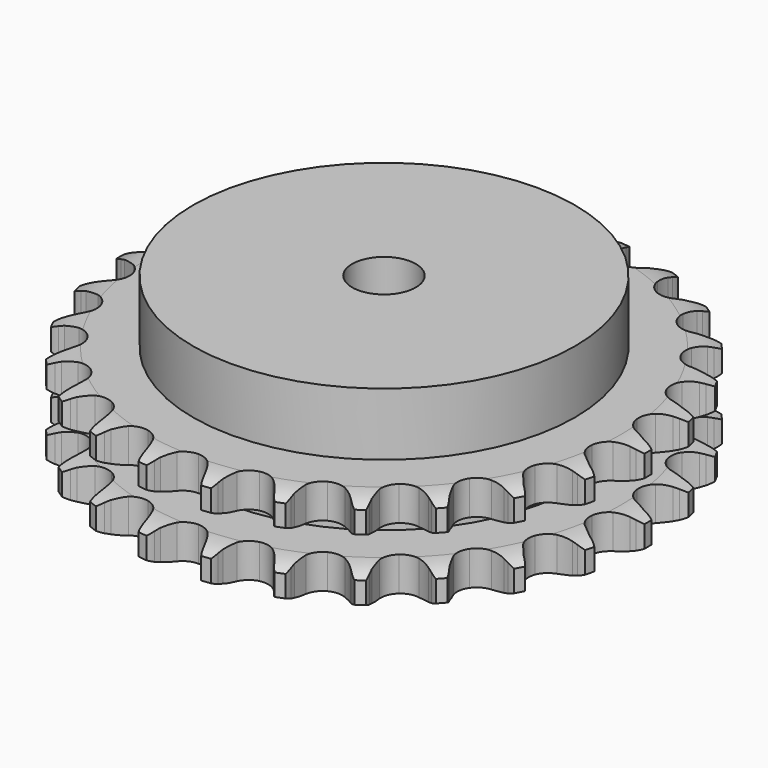
from build123d import *

# Parameters (mm, degrees)
PAD_DEPTH         = 30.3
SKETCH001_R       = 60
PAD001_DEPTH      = 50
SKETCH002_R       = 10
POCKET_DEPTH      = 0.001
POCKET_DEPTH_BACK = 50.001


with BuildPart() as part:
    # Sprocket → Pad (new body)
    with BuildSketch(Plane.XY):
        with BuildLine():
            ThreePointArc((-10.2495, 84.412229), (-8.684067, 82.666915), (-7.573609, 80.602071))
            Line((-7.573609, 80.602071), (-6.986274, 79.108095))
            ThreePointArc((-6.986274, 79.108095), (-6.051469, 77.141444), (-4.854497, 75.322423))
            ThreePointArc((-4.854497, 75.322423), (-2.708592, 73.552266), (0, 72.918314))
            ThreePointArc((0, 72.918314), (2.708592, 73.552266), (4.854497, 75.322423))
            ThreePointArc((4.854497, 75.322423), (6.051469, 77.141444), (6.986274, 79.108095))
            Line((6.986274, 79.108095), (7.573609, 80.602071))
            ThreePointArc((7.573609, 80.602071), (8.684067, 82.666915), (10.2495, 84.412229))
            ThreePointArc((10.2495, 84.412229), (11.351764, 82.342998), (11.935805, 80.072404))
            Line((11.935805, 80.072404), (12.148541, 78.481282))
            ThreePointArc((12.148541, 78.481282), (12.585532, 76.348065), (13.312402, 74.295448))
            ThreePointArc((13.312402, 74.295448), (14.972324, 72.063179), (17.450495, 70.79944))
            ThreePointArc((17.450495, 70.79944), (20.232095, 70.766762), (22.73927, 71.971933))
            Line((22.73927, 71.971933), (25.715072, 75.137432))
            ThreePointArc((25.715072, 75.137432), (26.162281, 75.804256), (26.642871, 76.447438))
            ThreePointArc((26.642871, 76.447438), (28.215212, 78.186532), (30.152837, 79.506497))
            ThreePointArc((30.152837, 79.506497), (30.727872, 77.233605), (30.751553, 74.88922))
            Line((30.751553, 74.88922), (30.577326, 73.293422))
            ThreePointArc((30.577326, 73.293422), (30.491107, 71.117614), (30.705632, 68.950691))
            ThreePointArc((30.705632, 68.950691), (31.783103, 66.386042), (33.88683, 64.56596))
            ThreePointArc((33.88683, 64.56596), (36.579781, 63.868552), (39.302519, 64.438696))
            Line((39.302519, 64.438696), (42.949403, 66.800056))
            ThreePointArc((42.949403, 66.800056), (43.543198, 67.340479), (44.163747, 67.849958))
            ThreePointArc((44.163747, 67.849958), (46.106591, 69.162231), (48.303801, 69.980137))
            ThreePointArc((48.303801, 69.980137), (48.318187, 67.635676), (47.780132, 65.353748))
            Line((47.780132, 65.353748), (47.229069, 63.846016))
            ThreePointArc((47.229069, 63.846016), (46.62465, 61.754066), (46.314363, 59.59877))
            ThreePointArc((46.314363, 59.59877), (46.746764, 56.85079), (48.353786, 54.580142))
            ThreePointArc((48.353786, 54.580142), (50.801584, 53.258533), (53.581649, 53.160517))
            Line((53.581649, 53.160517), (57.687671, 54.580503))
            ThreePointArc((57.687671, 54.580503), (58.393543, 54.963117), (59.117987, 55.309285))
            ThreePointArc((59.117987, 55.309285), (61.318422, 56.118473), (63.647523, 56.386785))
            ThreePointArc((63.647523, 56.386785), (63.100425, 54.107007), (62.031904, 52.020152))
            Line((62.031904, 52.020152), (61.13603, 50.68811))
            ThreePointArc((61.13603, 50.68811), (60.048538, 48.801596), (59.231471, 46.783186))
            ThreePointArc((59.231471, 46.783186), (58.993672, 44.011577), (60.010596, 41.422324))
            ThreePointArc((60.010596, 41.422324), (62.070984, 39.553322), (64.746808, 38.792841))
            Line((64.746808, 38.792841), (69.073341, 39.188929))
            ThreePointArc((69.073341, 39.188929), (69.850268, 39.391499), (70.636504, 39.554237))
            ThreePointArc((70.636504, 39.554237), (72.96665, 39.813313), (75.292282, 39.516438))
            ThreePointArc((75.292282, 39.516438), (74.215496, 37.433836), (72.678607, 35.663335))
            Line((72.678607, 35.663335), (71.489986, 34.584397))
            ThreePointArc((71.489986, 34.584397), (69.982623, 33.012954), (68.706261, 31.248733))
            ThreePointArc((68.706261, 31.248733), (67.812083, 28.61457), (68.179808, 25.85719))
            ThreePointArc((68.179808, 25.85719), (69.733043, 23.549415), (72.149118, 22.170666))
            Line((72.149118, 22.170666), (76.44472, 21.519837))
            ThreePointArc((76.44472, 21.519837), (77.247549, 21.530591), (78.049884, 21.500441))
            ThreePointArc((78.049884, 21.500441), (80.374321, 21.194348), (82.561328, 20.34954))
            ThreePointArc((82.561328, 20.34954), (81.017432, 18.585146), (79.101493, 17.233894))
            Line((79.101493, 17.233894), (77.689205, 16.470763))
            ThreePointArc((77.689205, 16.470763), (75.849572, 15.30572), (74.188093, 13.898217))
            ThreePointArc((74.188093, 13.898217), (72.689502, 11.554589), (72.386657, 8.789331))
            ThreePointArc((72.386657, 8.789331), (73.342472, 6.176903), (75.358383, 4.260013))
            Line((75.358383, 4.260013), (79.37341, 2.600091))
            ThreePointArc((79.37341, 2.600091), (80.155483, 2.418402), (80.927288, 2.197118))
            ThreePointArc((80.927288, 2.197118), (83.110929, 1.343645), (85.03221, 0))
            ThreePointArc((85.03221, 0), (83.110929, -1.343645), (80.927288, -2.197118))
            Line((80.927288, -2.197118), (79.37341, -2.600091))
            ThreePointArc((79.37341, -2.600091), (77.30842, -3.291027), (75.358383, -4.260013))
            ThreePointArc((75.358383, -4.260013), (73.342472, -6.176903), (72.386657, -8.789331))
            ThreePointArc((72.386657, -8.789331), (72.689502, -11.554589), (74.188093, -13.898217))
            Line((74.188093, -13.898217), (77.689205, -16.470763))
            ThreePointArc((77.689205, -16.470763), (78.405072, -16.834335), (79.101493, -17.233894))
            ThreePointArc((79.101493, -17.233894), (81.017432, -18.585146), (82.561328, -20.34954))
            ThreePointArc((82.561328, -20.34954), (80.374321, -21.194348), (78.049884, -21.500441))
            Line((78.049884, -21.500441), (76.44472, -21.519837))
            ThreePointArc((76.44472, -21.519837), (74.274383, -21.696512), (72.149118, -22.170666))
            ThreePointArc((72.149118, -22.170666), (69.733043, -23.549415), (68.179808, -25.85719))
            ThreePointArc((68.179808, -25.85719), (67.812083, -28.61457), (68.706261, -31.248733))
            Line((68.706261, -31.248733), (71.489986, -34.584397))
            ThreePointArc((71.489986, -34.584397), (72.098043, -35.108722), (72.678607, -35.663335))
            ThreePointArc((72.678607, -35.663335), (74.215496, -37.433836), (75.292282, -39.516438))
            ThreePointArc((75.292282, -39.516438), (72.96665, -39.813313), (70.636504, -39.554237))
            Line((70.636504, -39.554237), (69.073341, -39.188929))
            ThreePointArc((69.073341, -39.188929), (66.92379, -38.841074), (64.746808, -38.792841))
            ThreePointArc((64.746808, -38.792841), (62.070984, -39.553322), (60.010596, -41.422324))
            ThreePointArc((60.010596, -41.422324), (58.993672, -44.011577), (59.231471, -46.783186))
            Line((59.231471, -46.783186), (61.13603, -50.68811))
            ThreePointArc((61.13603, -50.68811), (61.600938, -51.342717), (62.031904, -52.020152))
            ThreePointArc((62.031904, -52.020152), (63.100425, -54.107007), (63.647523, -56.386785))
            ThreePointArc((63.647523, -56.386785), (61.318422, -56.118473), (59.117987, -55.309285))
            Line((59.117987, -55.309285), (57.687671, -54.580503))
            ThreePointArc((57.687671, -54.580503), (55.683828, -53.728334), (53.581649, -53.160517))
            ThreePointArc((53.581649, -53.160517), (50.801584, -53.258533), (48.353786, -54.580142))
            ThreePointArc((48.353786, -54.580142), (46.746764, -56.85079), (46.314363, -59.59877))
            Line((46.314363, -59.59877), (47.229069, -63.846016))
            ThreePointArc((47.229069, -63.846016), (47.523811, -64.59286), (47.780132, -65.353748))
            ThreePointArc((47.780132, -65.353748), (48.318187, -67.635676), (48.303801, -69.980137))
            ThreePointArc((48.303801, -69.980137), (46.106591, -69.162231), (44.163747, -67.849958))
            Line((44.163747, -67.849958), (42.949403, -66.800056))
            ThreePointArc((42.949403, -66.800056), (41.207726, -65.493099), (39.302519, -64.438696))
            ThreePointArc((39.302519, -64.438696), (36.579781, -63.868552), (33.88683, -64.56596))
            ThreePointArc((33.88683, -64.56596), (31.783103, -66.386042), (30.705632, -68.950691))
            Line((30.705632, -68.950691), (30.577326, -73.293422))
            ThreePointArc((30.577326, -73.293422), (30.684772, -74.089102), (30.751553, -74.88922))
            ThreePointArc((30.751553, -74.88922), (30.727872, -77.233605), (30.152837, -79.506497))
            ThreePointArc((30.152837, -79.506497), (28.215212, -78.186532), (26.642871, -76.447438))
            Line((26.642871, -76.447438), (25.715072, -75.137432))
            ThreePointArc((25.715072, -75.137432), (24.33678, -73.451642), (22.73927, -71.971933))
            ThreePointArc((22.73927, -71.971933), (20.232095, -70.766762), (17.450495, -70.79944))
            ThreePointArc((17.450495, -70.79944), (14.972324, -72.063179), (13.312402, -74.295448))
            Line((13.312402, -74.295448), (12.148541, -78.481282))
            ThreePointArc((12.148541, -78.481282), (12.062445, -79.279553), (11.935805, -80.072404))
            ThreePointArc((11.935805, -80.072404), (11.351764, -82.342998), (10.2495, -84.412229))
            ThreePointArc((10.2495, -84.412229), (8.684067, -82.666915), (7.573609, -80.602071))
            Line((7.573609, -80.602071), (6.986274, -79.108095))
            ThreePointArc((6.986274, -79.108095), (6.051469, -77.141444), (4.854497, -75.322423))
            ThreePointArc((4.854497, -75.322423), (2.708592, -73.552266), (0, -72.918314))
            ThreePointArc((0, -72.918314), (-2.708592, -73.552266), (-4.854497, -75.322423))
            Line((-4.854497, -75.322423), (-6.986274, -79.108095))
            ThreePointArc((-6.986274, -79.108095), (-7.260906, -79.862566), (-7.573609, -80.602071))
            ThreePointArc((-7.573609, -80.602071), (-8.684067, -82.666915), (-10.2495, -84.412229))
            ThreePointArc((-10.2495, -84.412229), (-11.351764, -82.342998), (-11.935805, -80.072404))
            Line((-11.935805, -80.072404), (-12.148541, -78.481282))
            ThreePointArc((-12.148541, -78.481282), (-12.585532, -76.348065), (-13.312402, -74.295448))
            ThreePointArc((-13.312402, -74.295448), (-14.972324, -72.063179), (-17.450495, -70.79944))
            ThreePointArc((-17.450495, -70.79944), (-20.232095, -70.766762), (-22.73927, -71.971933))
            Line((-22.73927, -71.971933), (-25.715072, -75.137432))
            ThreePointArc((-25.715072, -75.137432), (-26.162281, -75.804256), (-26.642871, -76.447438))
            ThreePointArc((-26.642871, -76.447438), (-28.215212, -78.186532), (-30.152837, -79.506497))
            ThreePointArc((-30.152837, -79.506497), (-30.727872, -77.233605), (-30.751553, -74.88922))
            Line((-30.751553, -74.88922), (-30.577326, -73.293422))
            ThreePointArc((-30.577326, -73.293422), (-30.491107, -71.117614), (-30.705632, -68.950691))
            ThreePointArc((-30.705632, -68.950691), (-31.783103, -66.386042), (-33.88683, -64.56596))
            ThreePointArc((-33.88683, -64.56596), (-36.579781, -63.868552), (-39.302519, -64.438696))
            Line((-39.302519, -64.438696), (-42.949403, -66.800056))
            ThreePointArc((-42.949403, -66.800056), (-43.543198, -67.340479), (-44.163747, -67.849958))
            ThreePointArc((-44.163747, -67.849958), (-46.106591, -69.162231), (-48.303801, -69.980137))
            ThreePointArc((-48.303801, -69.980137), (-48.318187, -67.635676), (-47.780132, -65.353748))
            Line((-47.780132, -65.353748), (-47.229069, -63.846016))
            ThreePointArc((-47.229069, -63.846016), (-46.62465, -61.754066), (-46.314363, -59.59877))
            ThreePointArc((-46.314363, -59.59877), (-46.746764, -56.85079), (-48.353786, -54.580142))
            ThreePointArc((-48.353786, -54.580142), (-50.801584, -53.258533), (-53.581649, -53.160517))
            Line((-53.581649, -53.160517), (-57.687671, -54.580503))
            ThreePointArc((-57.687671, -54.580503), (-58.393543, -54.963117), (-59.117987, -55.309285))
            ThreePointArc((-59.117987, -55.309285), (-61.318422, -56.118473), (-63.647523, -56.386785))
            ThreePointArc((-63.647523, -56.386785), (-63.100425, -54.107007), (-62.031904, -52.020152))
            Line((-62.031904, -52.020152), (-61.13603, -50.68811))
            ThreePointArc((-61.13603, -50.68811), (-60.048538, -48.801596), (-59.231471, -46.783186))
            ThreePointArc((-59.231471, -46.783186), (-58.993672, -44.011577), (-60.010596, -41.422324))
            ThreePointArc((-60.010596, -41.422324), (-62.070984, -39.553322), (-64.746808, -38.792841))
            Line((-64.746808, -38.792841), (-69.073341, -39.188929))
            ThreePointArc((-69.073341, -39.188929), (-69.850268, -39.391499), (-70.636504, -39.554237))
            ThreePointArc((-70.636504, -39.554237), (-72.96665, -39.813313), (-75.292282, -39.516438))
            ThreePointArc((-75.292282, -39.516438), (-74.215496, -37.433836), (-72.678607, -35.663335))
            Line((-72.678607, -35.663335), (-71.489986, -34.584397))
            ThreePointArc((-71.489986, -34.584397), (-69.982623, -33.012954), (-68.706261, -31.248733))
            ThreePointArc((-68.706261, -31.248733), (-67.812083, -28.61457), (-68.179808, -25.85719))
            ThreePointArc((-68.179808, -25.85719), (-69.733043, -23.549415), (-72.149118, -22.170666))
            Line((-72.149118, -22.170666), (-76.44472, -21.519837))
            ThreePointArc((-76.44472, -21.519837), (-77.247549, -21.530591), (-78.049884, -21.500441))
            ThreePointArc((-78.049884, -21.500441), (-80.374321, -21.194348), (-82.561328, -20.34954))
            ThreePointArc((-82.561328, -20.34954), (-81.017432, -18.585146), (-79.101493, -17.233894))
            Line((-79.101493, -17.233894), (-77.689205, -16.470763))
            ThreePointArc((-77.689205, -16.470763), (-75.849572, -15.30572), (-74.188093, -13.898217))
            ThreePointArc((-74.188093, -13.898217), (-72.689502, -11.554589), (-72.386657, -8.789331))
            ThreePointArc((-72.386657, -8.789331), (-73.342472, -6.176903), (-75.358383, -4.260013))
            Line((-75.358383, -4.260013), (-79.37341, -2.600091))
            ThreePointArc((-79.37341, -2.600091), (-80.155483, -2.418402), (-80.927288, -2.197118))
            ThreePointArc((-80.927288, -2.197118), (-83.110929, -1.343645), (-85.03221, 0))
            ThreePointArc((-85.03221, 0), (-83.110929, 1.343645), (-80.927288, 2.197118))
            Line((-80.927288, 2.197118), (-79.37341, 2.600091))
            ThreePointArc((-79.37341, 2.600091), (-77.30842, 3.291027), (-75.358383, 4.260013))
            ThreePointArc((-75.358383, 4.260013), (-73.342472, 6.176903), (-72.386657, 8.789331))
            ThreePointArc((-72.386657, 8.789331), (-72.689502, 11.554589), (-74.188093, 13.898217))
            Line((-74.188093, 13.898217), (-77.689205, 16.470763))
            ThreePointArc((-77.689205, 16.470763), (-78.405072, 16.834335), (-79.101493, 17.233894))
            ThreePointArc((-79.101493, 17.233894), (-81.017432, 18.585146), (-82.561328, 20.34954))
            ThreePointArc((-82.561328, 20.34954), (-80.374321, 21.194348), (-78.049884, 21.500441))
            Line((-78.049884, 21.500441), (-76.44472, 21.519837))
            ThreePointArc((-76.44472, 21.519837), (-74.274383, 21.696512), (-72.149118, 22.170666))
            ThreePointArc((-72.149118, 22.170666), (-69.733043, 23.549415), (-68.179808, 25.85719))
            ThreePointArc((-68.179808, 25.85719), (-67.812083, 28.61457), (-68.706261, 31.248733))
            Line((-68.706261, 31.248733), (-71.489986, 34.584397))
            ThreePointArc((-71.489986, 34.584397), (-72.098043, 35.108722), (-72.678607, 35.663335))
            ThreePointArc((-72.678607, 35.663335), (-74.215496, 37.433836), (-75.292282, 39.516438))
            ThreePointArc((-75.292282, 39.516438), (-72.96665, 39.813313), (-70.636504, 39.554237))
            Line((-70.636504, 39.554237), (-69.073341, 39.188929))
            ThreePointArc((-69.073341, 39.188929), (-66.92379, 38.841074), (-64.746808, 38.792841))
            ThreePointArc((-64.746808, 38.792841), (-62.070984, 39.553322), (-60.010596, 41.422324))
            ThreePointArc((-60.010596, 41.422324), (-58.993672, 44.011577), (-59.231471, 46.783186))
            Line((-59.231471, 46.783186), (-61.13603, 50.68811))
            ThreePointArc((-61.13603, 50.68811), (-61.600938, 51.342717), (-62.031904, 52.020152))
            ThreePointArc((-62.031904, 52.020152), (-63.100425, 54.107007), (-63.647523, 56.386785))
            ThreePointArc((-63.647523, 56.386785), (-61.318422, 56.118473), (-59.117987, 55.309285))
            Line((-59.117987, 55.309285), (-57.687671, 54.580503))
            ThreePointArc((-57.687671, 54.580503), (-55.683828, 53.728334), (-53.581649, 53.160517))
            ThreePointArc((-53.581649, 53.160517), (-50.801584, 53.258533), (-48.353786, 54.580142))
            ThreePointArc((-48.353786, 54.580142), (-46.746764, 56.85079), (-46.314363, 59.59877))
            Line((-46.314363, 59.59877), (-47.229069, 63.846016))
            ThreePointArc((-47.229069, 63.846016), (-47.523811, 64.59286), (-47.780132, 65.353748))
            ThreePointArc((-47.780132, 65.353748), (-48.318187, 67.635676), (-48.303801, 69.980137))
            ThreePointArc((-48.303801, 69.980137), (-46.106591, 69.162231), (-44.163747, 67.849958))
            Line((-44.163747, 67.849958), (-42.949403, 66.800056))
            ThreePointArc((-42.949403, 66.800056), (-41.207726, 65.493099), (-39.302519, 64.438696))
            ThreePointArc((-39.302519, 64.438696), (-36.579781, 63.868552), (-33.88683, 64.56596))
            ThreePointArc((-33.88683, 64.56596), (-31.783103, 66.386042), (-30.705632, 68.950691))
            Line((-30.705632, 68.950691), (-30.577326, 73.293422))
            ThreePointArc((-30.577326, 73.293422), (-30.684772, 74.089102), (-30.751553, 74.88922))
            ThreePointArc((-30.751553, 74.88922), (-30.727872, 77.233605), (-30.152837, 79.506497))
            ThreePointArc((-30.152837, 79.506497), (-28.215212, 78.186532), (-26.642871, 76.447438))
            Line((-26.642871, 76.447438), (-25.715072, 75.137432))
            ThreePointArc((-25.715072, 75.137432), (-24.33678, 73.451642), (-22.73927, 71.971933))
            ThreePointArc((-22.73927, 71.971933), (-20.232095, 70.766762), (-17.450495, 70.79944))
            ThreePointArc((-17.450495, 70.79944), (-14.972324, 72.063179), (-13.312402, 74.295448))
            Line((-13.312402, 74.295448), (-12.148541, 78.481282))
            ThreePointArc((-12.148541, 78.481282), (-12.062445, 79.279553), (-11.935805, 80.072404))
            ThreePointArc((-11.935805, 80.072404), (-11.351764, 82.342998), (-10.2495, 84.412229))
        make_face()
    extrude(amount=PAD_DEPTH)

    # Sketch → Groove (revolve, cut)
    with BuildSketch(Plane.XZ):
        with BuildLine():
            ThreePointArc((74.464719, 0), (78.823618, 0.506758), (82.95, 2))
            Line((82.95, 2), (82.95, 8.8))
            ThreePointArc((82.95, 8.8), (78.823618, 10.293242), (74.464719, 10.8))
            Line((60, 10.8), (74.464719, 10.8))
            Line((60, 19.5), (60, 10.8))
            Line((74.464719, 19.5), (60, 19.5))
            ThreePointArc((74.464719, 19.5), (78.823618, 20.006758), (82.95, 21.5))
            Line((82.95, 21.5), (82.95, 28.3))
            ThreePointArc((82.95, 28.3), (78.823618, 29.793242), (74.464719, 30.3))
            Line((74.464719, 30.3), (92.95, 30.3))
            Line((92.95, 30.3), (92.95, 0))
            Line((74.464719, 0), (92.95, 0))
        make_face()
    revolve(axis=Axis((0, 0, 0), (0, 0, 1)), mode=Mode.SUBTRACT)

    # Sketch001 → Pad001 (join)
    with BuildSketch(Plane.XY):
        Circle(SKETCH001_R)
    extrude(amount=PAD001_DEPTH)

    # Sketch002 → Pocket (cut, two sides)
    with BuildSketch(Plane.XY) as pocket_sk:
        Circle(SKETCH002_R)
    extrude(amount=-POCKET_DEPTH, mode=Mode.SUBTRACT)
    extrude(pocket_sk.sketch, amount=POCKET_DEPTH_BACK, mode=Mode.SUBTRACT)


solid = part.part
